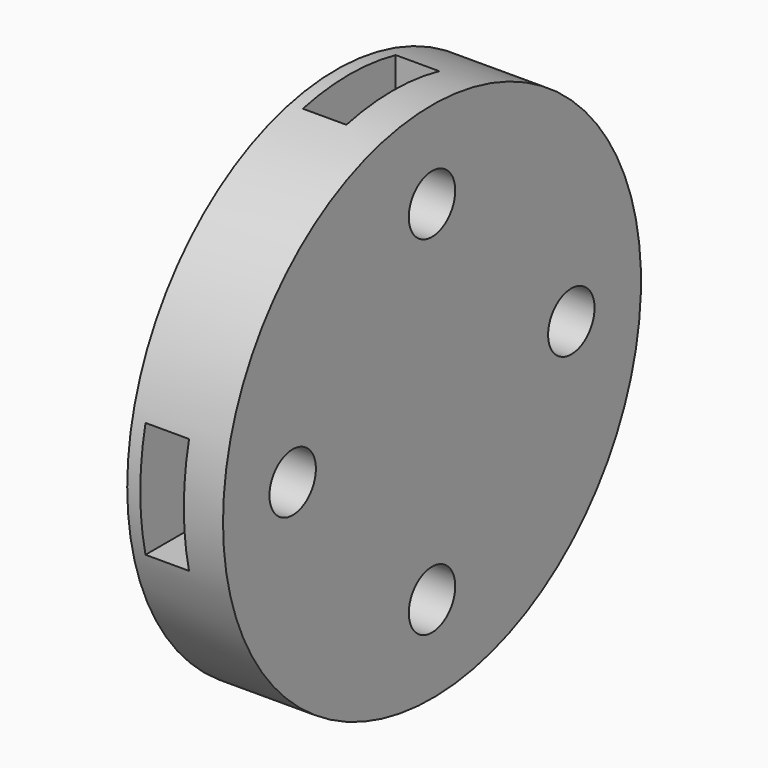
from build123d import *

# Parameters (mm, degrees)
BOX043_W                    = 6
BOX043_H                    = 4
BOX043_DEPTH                = 1.5
BOX046_W                    = 6
BOX046_H                    = 4
BOX046_DEPTH                = 1.5
BOX045_W                    = 6
BOX045_H                    = 4
BOX045_DEPTH                = 1.5
BOX044_W                    = 6
BOX044_H                    = 4
BOX044_DEPTH                = 1.5
COMPOUND834_ROLL_ANGLE      = 90
COMPOUND834_PLACEMENT_ANGLE = -90
CYLINDER496_R               = 1
CYLINDER496_DEPTH           = 10
CYLINDER497_R               = 1
CYLINDER497_DEPTH           = 10
CYLINDER495_R               = 1
CYLINDER495_DEPTH           = 10
CYLINDER494_R               = 1
CYLINDER494_DEPTH           = 10
COMPOUND833_ROLL_ANGLE      = 90
COMPOUND833_PLACEMENT_ANGLE = -90
CYLINDER493_R               = 9
CYLINDER493_DEPTH           = 3.3


with BuildPart() as krychle043:
    # Box043 → Box043 (new body)
    with BuildSketch(Plane(origin=(2, 3, -9.4), x_dir=(0, 1, 0), z_dir=(0, 0, 1))):
        with Locations((3, 2)):
            Rectangle(BOX043_W, BOX043_H)
    extrude(amount=BOX043_DEPTH)


with BuildPart() as krychle046:
    # Box046 → Box046 (new body)
    with BuildSketch(Plane(origin=(-3, 2, -9.4), x_dir=(-1, 0, 0), z_dir=(0, 0, 1))):
        with Locations((3, 2)):
            Rectangle(BOX046_W, BOX046_H)
    extrude(amount=BOX046_DEPTH)


with BuildPart() as krychle045:
    # Box045 → Box045 (new body)
    with BuildSketch(Plane(origin=(-2, -3, -9.4), x_dir=(0, -1, 0), z_dir=(0, 0, 1))):
        with Locations((3, 2)):
            Rectangle(BOX045_W, BOX045_H)
    extrude(amount=BOX045_DEPTH)


with BuildPart() as compound834:
    # Box044 → Box044 (new body)
    with BuildSketch(Plane(origin=(3, -2, -9.4), x_dir=(1, 0, 0), z_dir=(0, 0, 1))):
        with Locations((3, 2)):
            Rectangle(BOX044_W, BOX044_H)
    extrude(amount=BOX044_DEPTH)

    # Compound834: union Krychle043, Krychle046, Krychle045
    add(krychle043.part)
    add(krychle046.part)
    add(krychle045.part)


with BuildPart() as compound834_1:
    # Compound834 roll: moved
    add(compound834.part.rotate(Axis((0, 0, 0), (1, 0, 0)), COMPOUND834_ROLL_ANGLE))


with BuildPart() as compound834_2:
    # Compound834 placement: moved
    add(compound834_1.part.moved(Location((6, 0, 60))).rotate(Axis((6, 0, 60), (0, 0, 1)), COMPOUND834_PLACEMENT_ANGLE))


with BuildPart() as obj1:
    # Cylinder496 → Cylinder496 (new body)
    with BuildSketch(Plane(origin=(0, 6, -9.6), x_dir=(0, 1, 0), z_dir=(0, 0, 1))):
        Circle(CYLINDER496_R)
    extrude(amount=CYLINDER496_DEPTH)


with BuildPart() as obj2:
    # Cylinder497 → Cylinder497 (new body)
    with BuildSketch(Plane(origin=(-6, 0, -9.6), x_dir=(-1, 0, 0), z_dir=(0, 0, 1))):
        Circle(CYLINDER497_R)
    extrude(amount=CYLINDER497_DEPTH)


with BuildPart() as obj3:
    # Cylinder495 → Cylinder495 (new body)
    with BuildSketch(Plane(origin=(0, -6, -9.6), x_dir=(0, -1, 0), z_dir=(0, 0, 1))):
        Circle(CYLINDER495_R)
    extrude(amount=CYLINDER495_DEPTH)


with BuildPart() as compound833:
    # Cylinder494 → Cylinder494 (new body)
    with BuildSketch(Plane(origin=(6, 0, -9.6), x_dir=(1, 0, 0), z_dir=(0, 0, 1))):
        Circle(CYLINDER494_R)
    extrude(amount=CYLINDER494_DEPTH)

    # Compound833: union obj1, obj2, obj3
    add(obj1.part)
    add(obj2.part)
    add(obj3.part)


with BuildPart() as compound833_1:
    # Compound833 roll: moved
    add(compound833.part.rotate(Axis((0, 0, 0), (1, 0, 0)), COMPOUND833_ROLL_ANGLE))


with BuildPart() as compound833_2:
    # Compound833 placement: moved
    add(compound833_1.part.moved(Location((13.85, 0, 60))).rotate(Axis((13.85, 0, 60), (0, 0, 1)), COMPOUND833_PLACEMENT_ANGLE))


with BuildPart() as cut657:
    # Cylinder493 → Cylinder493 (new body)
    with BuildSketch(Plane(origin=(16.75, 0, 60), x_dir=(0, -1, 0), z_dir=(-1, 0, 0))):
        Circle(CYLINDER493_R)
    extrude(amount=CYLINDER493_DEPTH)

    # Cut656: cut Compound833
    add(compound833_2.part, mode=Mode.SUBTRACT)

    # Cut657: cut Compound834
    add(compound834_2.part, mode=Mode.SUBTRACT)


solid = cut657.part
